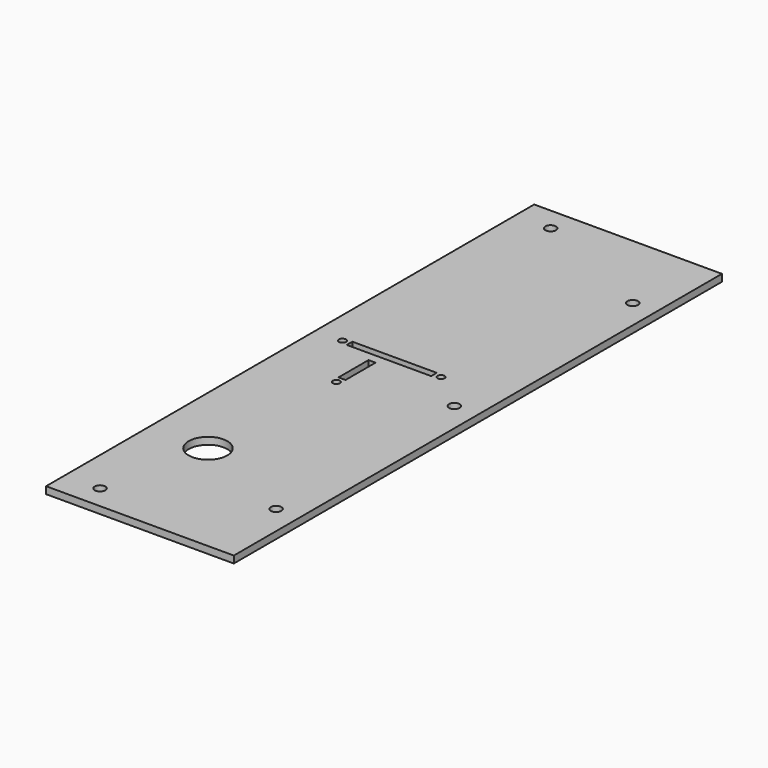
from build123d import *

# Parameters (mm, degrees)
SKETCH_W        = 80
SKETCH_H        = 260
PAD_DEPTH       = 3
SKETCH004_R     = 2.25
HOLE002_DEPTH   = 3.001
SKETCH006_R     = 1.5
SKETCH006_W     = 36
SKETCH006_H     = 3
SKETCH006_W_2   = 3
SKETCH006_H_2   = 16
POCKET_DEPTH    = 3.001
SKETCH012_R     = 8.25
POCKET003_DEPTH = 3.001


with BuildPart() as part:
    # Sketch → Pad (new body)
    with BuildSketch(Plane.XY):
        Rectangle(SKETCH_W, SKETCH_H)
    extrude(amount=PAD_DEPTH)

    # Sketch004 (on Face6 of Pad) → Hole002 (cut, through all)
    with BuildSketch(Plane.XY.offset(3)):
        with Locations((-25, -120)):
            Circle(SKETCH004_R)
        with Locations((-25, 120)):
            Circle(SKETCH004_R)
        with Locations((30, 0)):
            Circle(SKETCH004_R)
        with Locations((30, -95)):
            Circle(SKETCH004_R)
        with Locations((30, 95)):
            Circle(SKETCH004_R)
    extrude(amount=-HOLE002_DEPTH, mode=Mode.SUBTRACT)

    # Sketch006 (on Face5 of Hole002) → Pocket (cut, through all)
    with BuildSketch(Plane.XY.offset(3)):
        with Locations((-28.5, 13.5)):
            Circle(SKETCH006_R)
        with Locations((13.5, 13.5)):
            Circle(SKETCH006_R)
        with Locations((-11.5, -11)):
            Circle(SKETCH006_R)
        with Locations((-7.5, 13.5)):
            Rectangle(SKETCH006_W, SKETCH006_H)
        with Locations((-11.5, 0)):
            Rectangle(SKETCH006_W_2, SKETCH006_H_2)
    extrude(amount=-POCKET_DEPTH, mode=Mode.SUBTRACT)

    # Sketch012 (on Face4 of Pocket) → Pocket003 (cut, through all)
    with BuildSketch(Plane(origin=(0, 0, 0), x_dir=(1, 0, 0), z_dir=(0, 0, -1))):
        with Locations((-15, 75)):
            Circle(SKETCH012_R)
    extrude(amount=-POCKET003_DEPTH, mode=Mode.SUBTRACT)


with BuildPart() as part_1:
    # Body placement: moved
    add(part.part.moved(Location((-170, 141, 81))))


solid = part_1.part
